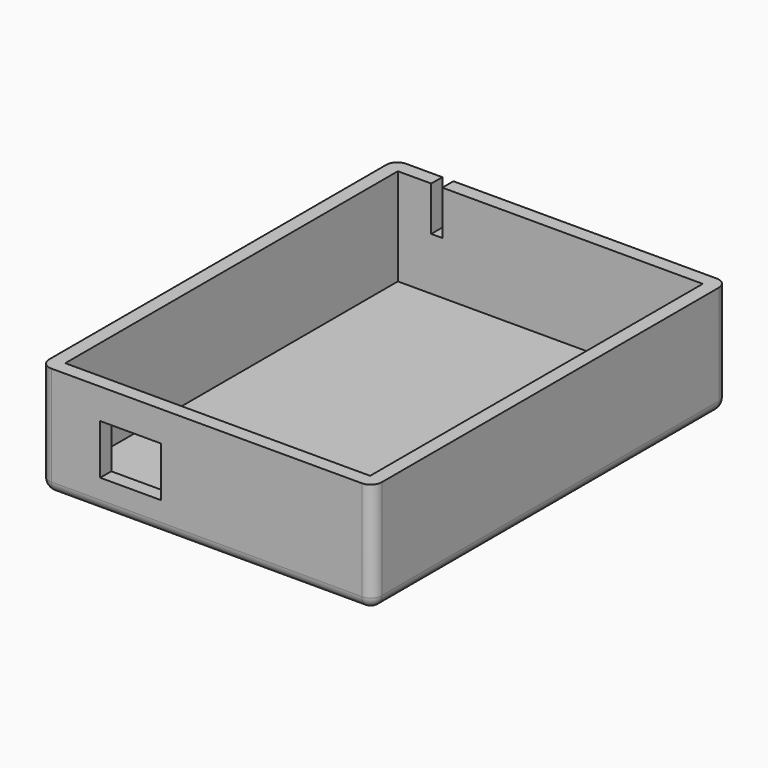
from build123d import *

# Parameters (mm, degrees)
F0_W     = 60
F0_H     = 80
F1_DEPTH = 20
F2_T     = -2.5
F3_W     = 11
F3_H     = 9
F4_DEPTH = 10
F5_W     = 2
F5_H     = 8
F6_DEPTH = 25
F7_R     = 2
F8_R     = 2


with BuildPart() as f1:
    # F0 (on Top) → F1 (new body)
    with BuildSketch(Plane.XY):
        with Locations((1.363532, 17.233828)):
            Rectangle(F0_W, F0_H)
    extrude(amount=F1_DEPTH)

    # F2
    f2_openings = [f1.faces().sort_by_distance(p)[0] for p in [
        (1.363532, 17.233828, 20),
    ]]
    offset(amount=F2_T, openings=f2_openings)

    # F3 (on face) → F4 (cut)
    with BuildSketch(Plane.XZ.offset(22.766172)):
        with Locations((-12.330356, 10.031623)):
            Rectangle(F3_W, F3_H)
    extrude(amount=-F4_DEPTH, mode=Mode.SUBTRACT)

    # F5 (on face) → F6 (cut)
    with BuildSketch(Plane(origin=(0, 57.233828, 0), x_dir=(-1, 0, 0), z_dir=(0, 1, 0))):
        with Locations((19.115507, 16)):
            Rectangle(F5_W, F5_H)
    extrude(amount=-F6_DEPTH, mode=Mode.SUBTRACT)

    # F7
    f7_edges = [f1.edges().sort_by_distance(p)[0] for p in [
        (31.363532, -22.766172, 10),
        (31.363532, 57.233828, 10),
        (-28.636468, 57.233828, 10),
        (-28.636468, -22.766172, 10),
    ]]
    fillet(f7_edges, radius=F7_R)

    # F8
    f8_edges = [f1.edges().sort_by_distance(p)[0] for p in [
        (1.363532, 57.233828, 0),
        (30.777745, 56.648042, 0),
        (-28.050682, 56.648042, 0),
        (31.363532, 17.233828, 0),
        (-28.636468, 17.233828, 0),
        (30.777745, -22.180386, 0),
        (-28.050682, -22.180386, 0),
        (1.363532, -22.766172, 0),
    ]]
    fillet(f8_edges, radius=F8_R)


solid = f1.part
